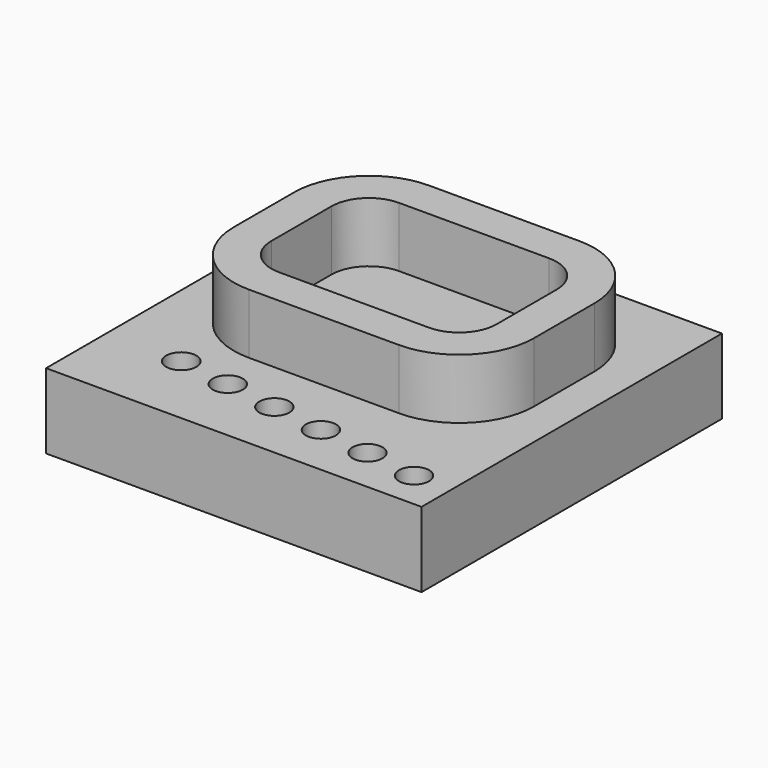
from build123d import *

# Parameters (mm, degrees)
F0_W     = 50
F0_H     = 50
F1_DEPTH = 10
F3_DEPTH = 8
F4_R     = 2.026375
F4_R_2   = 2
F5_DEPTH = 25


with BuildPart() as f1:
    # F0 (on Top) → F1 (new body)
    with BuildSketch(Plane.XY):
        with Locations((25, 25)):
            Rectangle(F0_W, F0_H)
    extrude(amount=F1_DEPTH)

    # F2 (on face) → F3 (join)
    with BuildSketch(Plane.XY.offset(10)):
        with BuildLine():
            Line((35, 45), (15, 45))
            ThreePointArc((15, 45), (7.928932, 42.071068), (5, 35))
            Line((5, 35), (5, 25))
            ThreePointArc((5, 25), (7.928932, 17.928932), (15, 15))
            Line((15, 15), (35, 15))
            ThreePointArc((35, 15), (42.071068, 17.928932), (45, 25))
            Line((45, 25), (45, 35))
            ThreePointArc((45, 35), (42.071068, 42.071068), (35, 45))
        make_face()
        with BuildLine():
            ThreePointArc((10, 35), (11.464466, 38.535534), (15, 40))
            Line((15, 40), (35, 40))
            ThreePointArc((35, 40), (38.535534, 38.535534), (40, 35))
            Line((40, 35), (40, 25))
            ThreePointArc((40, 25), (38.535534, 21.464466), (35, 20))
            Line((35, 20), (15, 20))
            ThreePointArc((15, 20), (11.464466, 21.464466), (10, 25))
            Line((10, 25), (10, 35))
        make_face(mode=Mode.SUBTRACT)
    extrude(amount=F3_DEPTH)

    # F4 (on face) → F5 (cut)
    with BuildSketch(Plane.XY.offset(10)):
        with Locations((10, 10)):
            Circle(F4_R)
        with Locations((17, 9)):
            Circle(F4_R_2)
        with Locations((24, 8)):
            Circle(F4_R_2)
        with Locations((31, 7)):
            Circle(F4_R_2)
        with Locations((38, 6)):
            Circle(F4_R_2)
        with Locations((45, 5)):
            Circle(F4_R_2)
    extrude(amount=-F5_DEPTH, mode=Mode.SUBTRACT)


solid = f1.part
